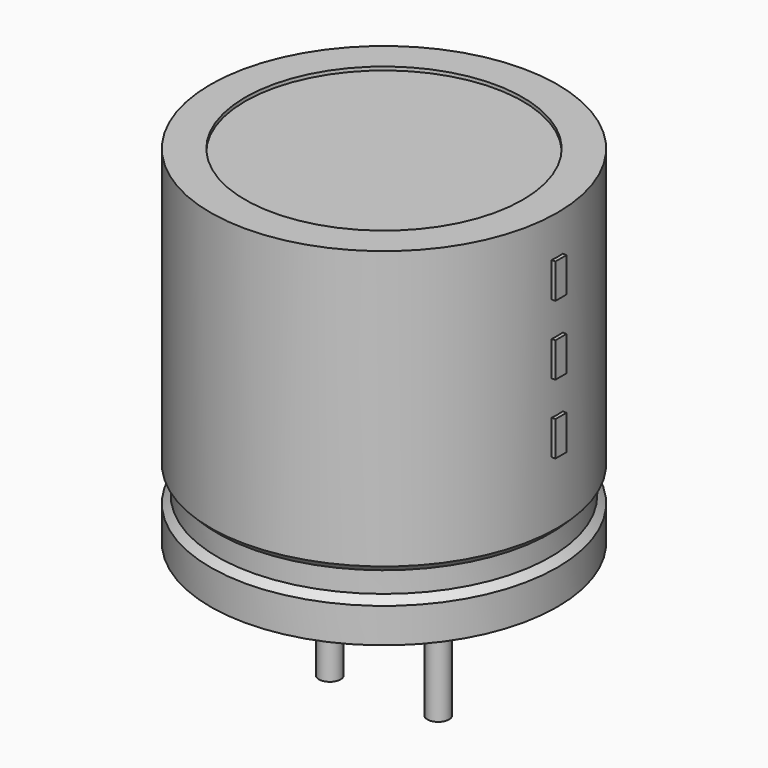
from build123d import *

# Parameters (mm, degrees)
SKETCH002_W  = 3.68
SKETCH002_H  = 7.84
SKETCH003_R  = 0.25
PAD_DEPTH    = 3.8
SKETCH004_W  = 0.32
SKETCH004_H  = 0.8
PAD001_DEPTH = 4.08


with BuildPart() as revolution:
    # Sketch → Revolution (revolve)
    with BuildSketch(Plane.XZ):
        Polygon((-2.75, 0.1), (-2.75, 0.9), (-2.59, 1.06), (-2.59, 1.54), (-2.75, 1.7), (-2.75, 8.1), (-1.95, 8.1), (-1.95, 0.1), align=None)
    revolve(axis=Axis((1.25, 0, 7.548619), (0, 0, -1)))


with BuildPart() as revolution001:
    # Sketch002 → Revolution001 (revolve)
    with BuildSketch(Plane.XZ):
        with Locations((-0.59, 4.1)):
            Rectangle(SKETCH002_W, SKETCH002_H)
    revolve(axis=Axis((1.25, 0, 4.680116), (0, 0, -1)))


with BuildPart() as pad:
    # Sketch003 → Pad (new body)
    with BuildSketch(Plane.XY.offset(0.8)):
        Circle(SKETCH003_R)
        with Locations((2.5, 0)):
            Circle(SKETCH003_R)
    extrude(amount=-PAD_DEPTH)


with BuildPart() as pad001:
    # Sketch004 → Pad001 (new body)
    with BuildSketch(Plane.YZ.offset(1.25)):
        with Locations((0, 3.6)):
            Rectangle(SKETCH004_W, SKETCH004_H)
        with Locations((0, 5.2)):
            Rectangle(SKETCH004_W, SKETCH004_H)
        with Locations((0, 6.8)):
            Rectangle(SKETCH004_W, SKETCH004_H)
    extrude(amount=PAD001_DEPTH)


solid = Compound([revolution.part, revolution001.part, pad.part, pad001.part])
